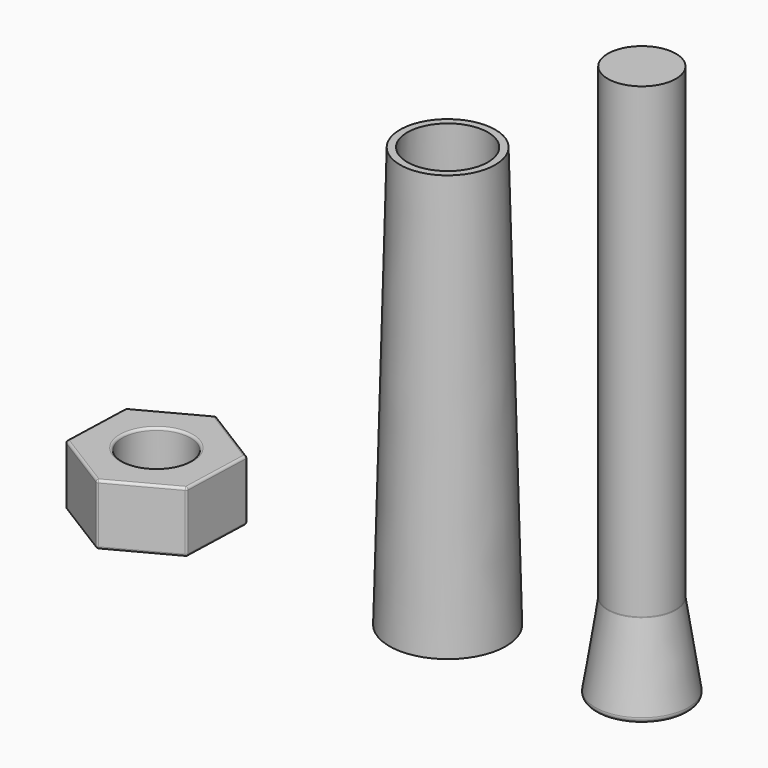
from build123d import *

# Parameters (mm, degrees)
F3_R     = 0.5
F6_T     = -0.75
F7_R     = 3.51
F8_DEPTH = 6.28
F9_R     = 0.25


with BuildPart() as f2:
    # F1 (on Front) → F2 (revolve)
    with BuildSketch(Plane.XZ):
        Polygon((-30, 13.08), (-30, 9), (-26.49, 9), (-26.49, 57.14), (-30, 57.14), align=None)
        Polygon((-30, 9), (-30, 0), (-25.1, 0), (-26.49, 9), align=None)
    revolve(axis=Axis((-30, 0, 28.57), (0, 0, 1)))

    # F3
    f3_edges = [f2.edges().sort_by_distance(p)[0] for p in [
        (-34.9, 0, 0),
        (-33.51, 0, 9),
    ]]
    fillet(f3_edges, radius=F3_R)


with BuildPart() as f5:
    # F4 (on Front) → F5 (revolve)
    with BuildSketch(Plane.XZ):
        Polygon((-50, 43.29), (-50, 0), (-44, 0), (-45.095, 43.29), align=None)
    revolve(axis=Axis((-50, 0, 21.645), (0, 0, 1)))

    # F6
    f6_openings = [f5.faces().sort_by_distance(p)[0] for p in [
        (-50, 0, 43.29),
        (-50, 0, 0),
    ]]
    offset(amount=F6_T, openings=f6_openings)


with BuildPart() as f8:
    # F7 (on Top) → F8 (new body)
    with BuildSketch(Plane.XY):
        Polygon((-79.7561682365, 7.3918364478), (-86.2796022627, 3.9070827253), (-86.5234340262, -3.4847537225), (-80.2438317635, -7.3918364478), (-73.7203977373, -3.9070827253), (-73.4765659738, 3.4847537225), align=None)
        with Locations((-80, 0)):
            Circle(F7_R, mode=Mode.SUBTRACT)
    extrude(amount=F8_DEPTH)

    # F9
    f9_edges = [f8.edges().sort_by_distance(p)[0] for p in [
        (-76.616367, 5.438295, 6.28),
        (-83.017885, 5.64946, 6.28),
        (-86.401518, 0.211165, 6.28),
        (-83.383633, -5.438295, 6.28),
        (-76.982115, -5.64946, 6.28),
        (-73.598482, -0.211165, 6.28),
        (-83.51, 0, 6.28),
        (-76.616367, 5.438295, 0),
        (-83.017885, 5.64946, 0),
        (-86.401518, 0.211165, 0),
        (-83.383633, -5.438295, 0),
        (-76.982115, -5.64946, 0),
        (-73.598482, -0.211165, 0),
        (-83.51, 0, 0),
        (-86.523434, -3.484754, 3.14),
        (-80.243832, -7.391836, 3.14),
        (-73.720398, -3.907083, 3.14),
        (-73.476566, 3.484754, 3.14),
        (-79.756168, 7.391836, 3.14),
        (-86.279602, 3.907083, 3.14),
    ]]
    fillet(f9_edges, radius=F9_R)


solid = Compound([f2.part, f5.part, f8.part])
